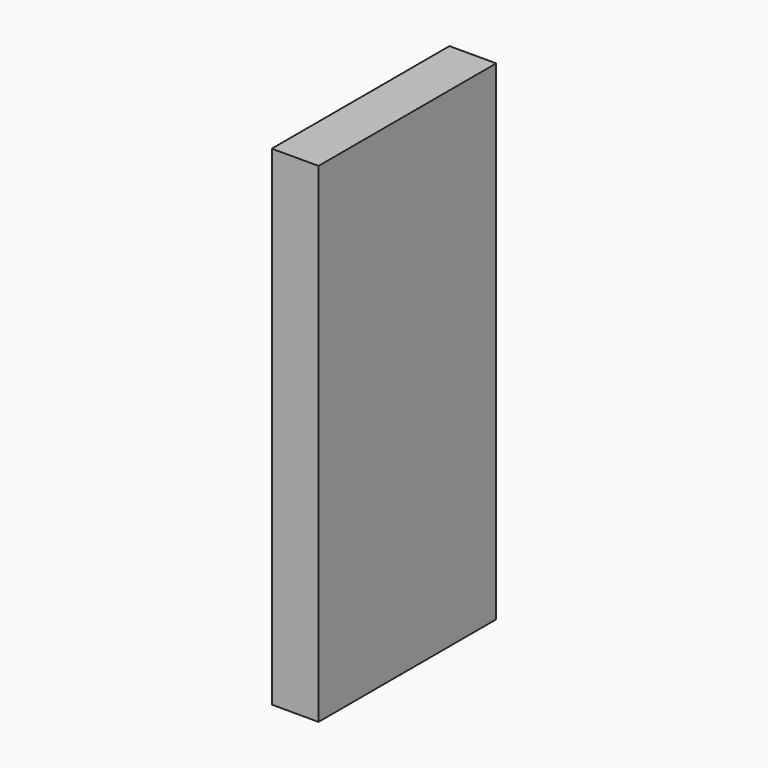
from build123d import *

# Parameters (mm, degrees)
BOX_W     = 32
BOX_H     = 152
BOX_DEPTH = 335


with BuildPart() as part:
    # Box → Box (new body)
    with BuildSketch(Plane.XY):
        with Locations((16, 76)):
            Rectangle(BOX_W, BOX_H)
    extrude(amount=BOX_DEPTH)


solid = part.part
